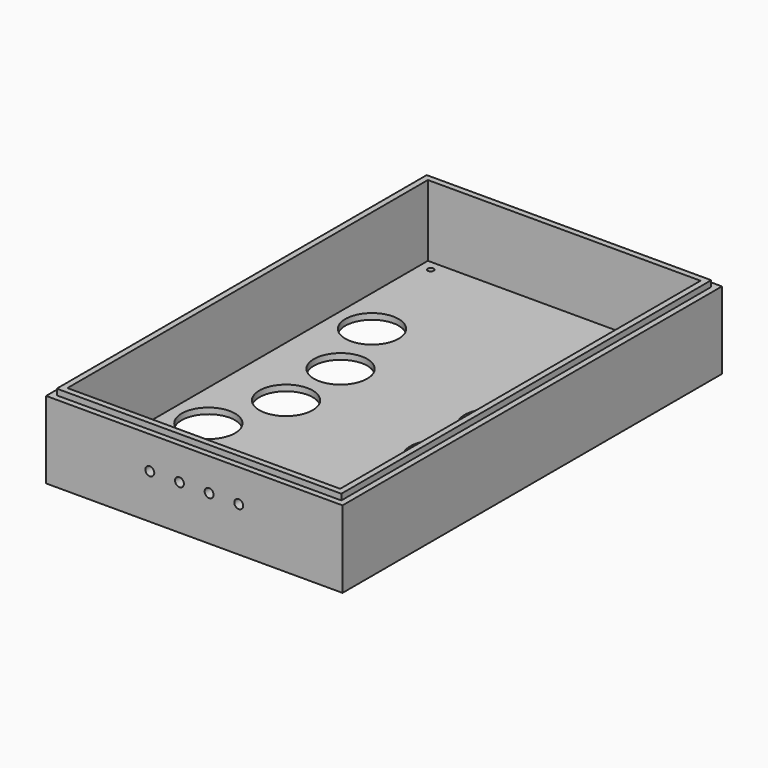
from build123d import *

# Parameters (mm, degrees)
SKETCH_W        = 100
SKETCH_H        = 160
PAD_DEPTH       = 26
SKETCH001_W     = 96
SKETCH001_H     = 156
PAD001_DEPTH    = 28
SKETCH005_W     = 92
SKETCH005_H     = 152
POCKET_DEPTH    = 24
SKETCH003_R     = 9
POCKET001_DEPTH = 28.001
SKETCH002_R     = 1
POCKET002_DEPTH = 28.001
SKETCH006_W     = 96
SKETCH006_H     = 156
POCKET003_DEPTH = 2
SKETCH007_R     = 1.5
POCKET004_DEPTH = 10


with BuildPart() as part:
    # Sketch → Pad (new body)
    with BuildSketch(Plane.XY):
        Rectangle(SKETCH_W, SKETCH_H)
    extrude(amount=PAD_DEPTH)

    # Sketch001 → Pad001 (join)
    with BuildSketch(Plane.XY):
        Rectangle(SKETCH001_W, SKETCH001_H)
    extrude(amount=PAD001_DEPTH)

    # Sketch005 → Pocket (cut)
    with BuildSketch(Plane.XY.offset(28)):
        Rectangle(SKETCH005_W, SKETCH005_H)
    extrude(amount=-POCKET_DEPTH, mode=Mode.SUBTRACT)

    # Sketch003 → Pocket001 (cut, through all)
    with BuildSketch(Plane.XY):
        with Locations((33.25, 36.5)):
            Circle(SKETCH003_R)
        with Locations((25.45, 13.5)):
            Circle(SKETCH003_R)
        with Locations((25.45, -9.5)):
            Circle(SKETCH003_R)
        with Locations((33.25, -32.5)):
            Circle(SKETCH003_R)
        with Locations((-33.25, 36.5)):
            Circle(SKETCH003_R)
        with Locations((-25.45, 13.5)):
            Circle(SKETCH003_R)
        with Locations((-25.45, -9.5)):
            Circle(SKETCH003_R)
        with Locations((-33.25, -32.5)):
            Circle(SKETCH003_R)
    extrude(amount=POCKET001_DEPTH, mode=Mode.SUBTRACT)

    # Sketch002 → Pocket002 (cut, through all)
    with BuildSketch(Plane.XY):
        with Locations((42.25, 72.5)):
            Circle(SKETCH002_R)
        with Locations((-42.25, 72.5)):
            Circle(SKETCH002_R)
        with Locations((42.25, -72.5)):
            Circle(SKETCH002_R)
        with Locations((-42.25, -72.5)):
            Circle(SKETCH002_R)
    extrude(amount=POCKET002_DEPTH, mode=Mode.SUBTRACT)

    # Sketch006 → Pocket003 (cut)
    with BuildSketch(Plane.XY):
        Rectangle(SKETCH006_W, SKETCH006_H)
    extrude(amount=POCKET003_DEPTH, mode=Mode.SUBTRACT)

    # Sketch007 → Pocket004 (cut)
    with BuildSketch(Plane.XZ.offset(80)):
        with Locations((-15, 15)):
            Circle(SKETCH007_R)
        with Locations((-5, 15)):
            Circle(SKETCH007_R)
        with Locations((5, 15)):
            Circle(SKETCH007_R)
        with Locations((15, 15)):
            Circle(SKETCH007_R)
    extrude(amount=-POCKET004_DEPTH, mode=Mode.SUBTRACT)


solid = part.part
